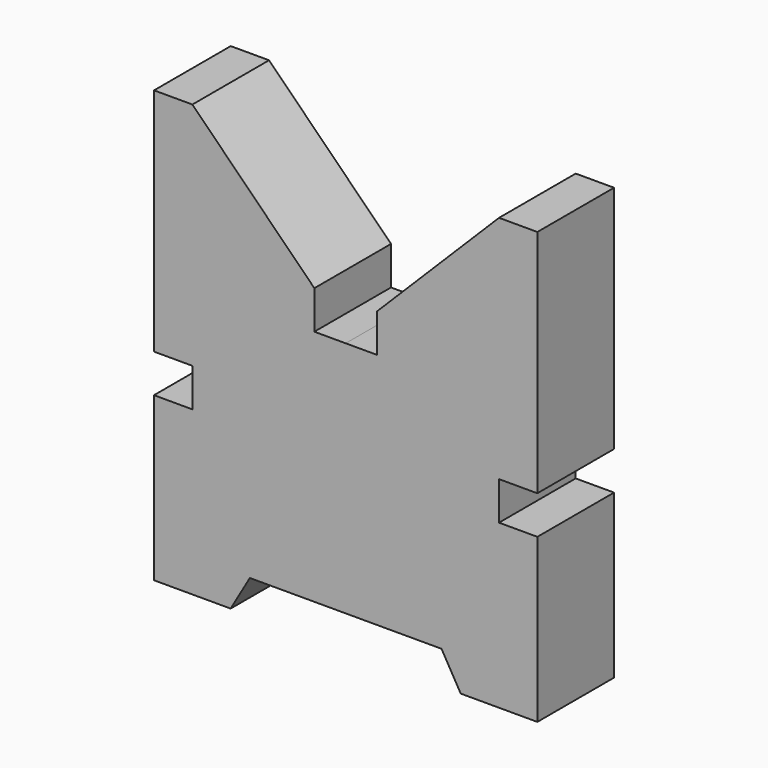
from build123d import *

# Parameters (mm, degrees)
F1_DEPTH = 254


with BuildPart() as f1:
    # F0 (on Front) → F1 (new body)
    with BuildSketch(Plane.XZ):
        Polygon((-253.999996, 0.042551), (0, 0), (254, 0), (304.8, -87.988181), (508, -87.988181), (508, 343.811819), (406.4, 343.811819), (406.4, 445.411819), (508, 445.411819), (508, 1055.011819), (406.4, 1055.011819), (83.11078, 731.722599), (83.11078, 630.122599), (0.05278, 630.122599), (-83.005219, 630.136513), (-82.988199, 731.736511), (-406.223257, 1055.079885), (-507.823255, 1055.096905), (-507.925377, 445.496914), (-406.325378, 445.479894), (-406.342398, 343.879895), (-507.942397, 343.896915), (-508.014733, -87.903079), (-304.814736, -87.937119), align=None)
    extrude(amount=F1_DEPTH)


solid = f1.part
